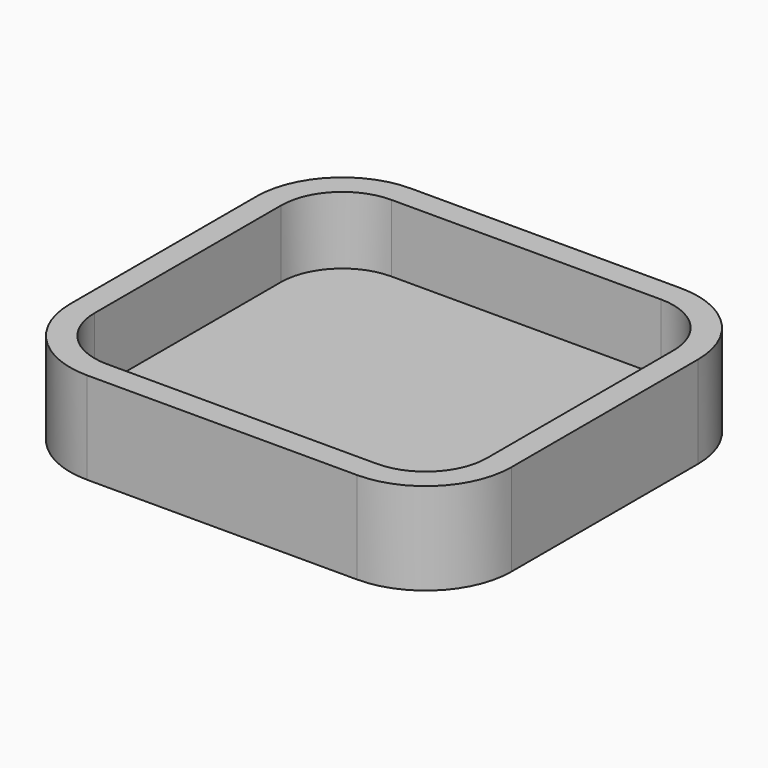
from build123d import *

# Parameters (mm, degrees)
F1_DEPTH = 7.5
F2_T     = -2


with BuildPart() as f1:
    # F0 (on Top) → F1 (new body)
    with BuildSketch(Plane.XY):
        with BuildLine():
            Line((27, 30.999999), (5, 30.999999))
            ThreePointArc((5, 30.999999), (0.050253, 28.949747), (-1.999999, 24))
            Line((-1.999999, 24), (-1.999999, 5))
            ThreePointArc((-1.999999, 5), (0.050253, 0.050253), (5, -1.999999))
            Line((5, -1.999999), (27, -1.999999))
            ThreePointArc((27, -1.999999), (31.949747, 0.050253), (33.999999, 5))
            Line((33.999999, 5), (33.999999, 24))
            ThreePointArc((33.999999, 24), (31.949747, 28.949747), (27, 30.999999))
        make_face()
        with BuildLine():
            Line((27, 0), (5, 0))
            ThreePointArc((5, 0), (1.464466, 1.464466), (0, 5))
            Line((0, 5), (0, 24))
            ThreePointArc((0, 24), (1.464466, 27.535534), (5, 29))
            Line((5, 29), (27, 29))
            ThreePointArc((27, 29), (30.535534, 27.535534), (32, 24))
            Line((32, 24), (32, 5))
            ThreePointArc((32, 5), (30.535534, 1.464466), (27, 0))
        make_face(mode=Mode.SUBTRACT)
        with BuildLine():
            ThreePointArc((0, 5), (1.464466, 1.464466), (5, 0))
            Line((5, 0), (27, 0))
            ThreePointArc((27, 0), (30.535534, 1.464466), (32, 5))
            Line((32, 5), (32, 24))
            ThreePointArc((32, 24), (30.535534, 27.535534), (27, 29))
            Line((27, 29), (5, 29))
            ThreePointArc((5, 29), (1.464466, 27.535534), (0, 24))
            Line((0, 24), (0, 5))
        make_face()
    extrude(amount=F1_DEPTH)

    # F2
    f2_openings = [f1.faces().sort_by_distance(p)[0] for p in [
        (16, 14.5, 7.5),
    ]]
    offset(amount=F2_T, openings=f2_openings)


solid = f1.part
